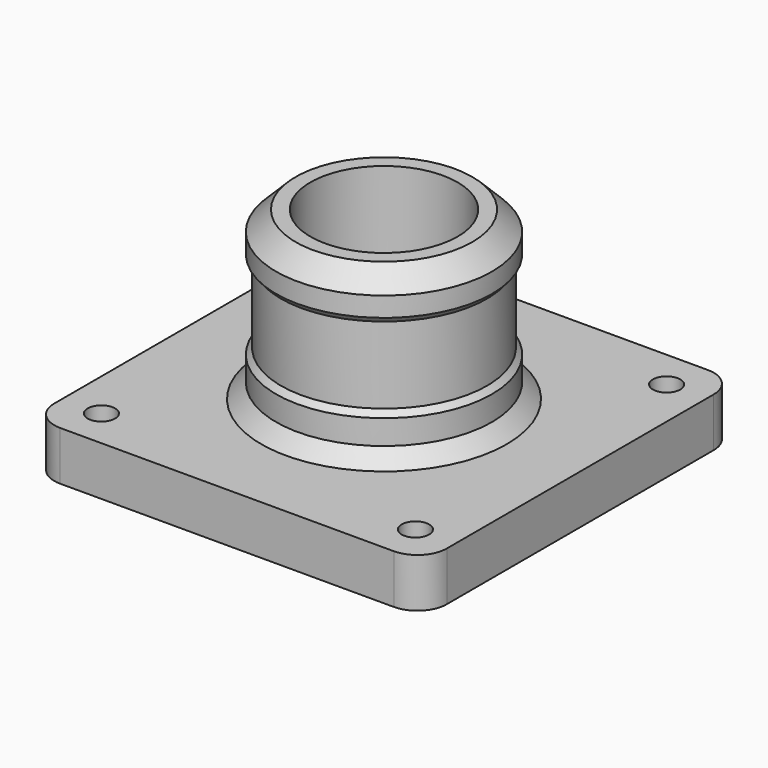
from build123d import *

# Parameters (mm, degrees)
SKETCH008_R     = 7.5
SKETCH008_R_2   = 1.4
PAD002_DEPTH    = 5
SKETCH009_R     = 11
SKETCH009_R_2   = 7.5
PAD003_DEPTH    = 17
CHAMFER001_SIZE = 2
CHAMFER003_SIZE = 1.5


with BuildPart() as part:
    # Sketch008 → Pad002 (new body)
    with BuildSketch(Plane.XY):
        with BuildLine():
            ThreePointArc((-17, 20), (-19.12132, 19.12132), (-20, 17))
            Line((-20, -17), (-20, 17))
            ThreePointArc((-20, -17), (-19.12132, -19.12132), (-17, -20))
            Line((17, -20), (-17, -20))
            ThreePointArc((17, -20), (19.12132, -19.12132), (20, -17))
            Line((20, 17), (20, -17))
            ThreePointArc((20, 17), (19.12132, 19.12132), (17, 20))
            Line((-17, 20), (17, 20))
        make_face()
        Circle(SKETCH008_R, mode=Mode.SUBTRACT)
        with Locations((-16, 16)):
            Circle(SKETCH008_R_2, mode=Mode.SUBTRACT)
        with Locations((16, 16)):
            Circle(SKETCH008_R_2, mode=Mode.SUBTRACT)
        with Locations((16, -16)):
            Circle(SKETCH008_R_2, mode=Mode.SUBTRACT)
        with Locations((-16, -16)):
            Circle(SKETCH008_R_2, mode=Mode.SUBTRACT)
    extrude(amount=PAD002_DEPTH)

    # Sketch009 (on Face15 of Pad002) → Pad003 (join)
    with BuildSketch(Plane.XY.offset(5)):
        Circle(SKETCH009_R)
        Circle(SKETCH009_R_2, mode=Mode.SUBTRACT)
    extrude(amount=PAD003_DEPTH)

    # Sketch010 → Groove (revolve, cut)
    with BuildSketch(Plane.YZ):
        Polygon((-11, 18), (-10.5, 17.404123), (-10.5, 9.595877), (-11, 9), align=None)
    revolve(axis=Axis((0, 0, 0), (0, 0, 1)), mode=Mode.SUBTRACT)

    # Chamfer001
    chamfer001_edges = [part.edges().sort_by_distance(p)[0] for p in [
        (-11, 0, 22),
    ]]
    chamfer(chamfer001_edges, length=CHAMFER001_SIZE)

    # Chamfer003
    chamfer003_edges = [part.edges().sort_by_distance(p)[0] for p in [
        (-11, 0, 5),
    ]]
    chamfer(chamfer003_edges, length=CHAMFER003_SIZE)


with BuildPart() as part_1:
    # Body002 placement: moved
    add(part.part.moved(Location((0, 0, 30))))


solid = part_1.part
